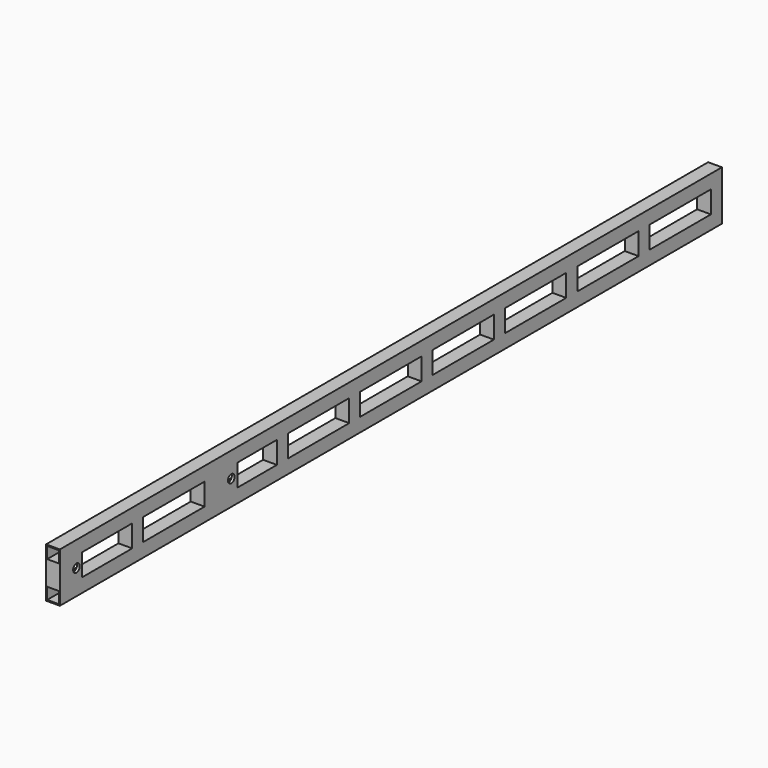
from build123d import *

# Parameters (mm, degrees)
F0_W     = 50
F0_H     = 50
F0_W_2   = 42
F0_H_2   = 42
F1_DEPTH = 1500
F2_W     = 50
F2_H     = 50
F2_W_2   = 42
F2_H_2   = 42
F3_DEPTH = 80
F5_W     = 10
F5_H     = 50
F5_H_2   = 100
F6_DEPTH = 80
F7_R     = 15
F8_DEPTH = 50.001


with BuildPart() as f1:
    # F0 (on Front) → F1 (new body, symmetric)
    with BuildSketch(Plane.XZ):
        Rectangle(F0_W, F0_H)
        Rectangle(F0_W_2, F0_H_2, mode=Mode.SUBTRACT)
    extrude(amount=F1_DEPTH, both=True)


with BuildPart() as f1b:
    # F0 (on Front) → F1, piece 2 (new body, symmetric)
    with BuildSketch(Plane.XZ):
        with Locations((0, 130)):
            Rectangle(F0_W, F0_H)
        with Locations((0, 130)):
            Rectangle(F0_W_2, F0_H_2, mode=Mode.SUBTRACT)
    extrude(amount=F1_DEPTH, both=True)


with BuildPart() as f3:
    # F2 (on face) → F3 (new body, through all)
    with BuildSketch(Plane.XY.offset(25)):
        with Locations((0, 1475)):
            Rectangle(F2_W, F2_H)
        with Locations((0, 1475)):
            Rectangle(F2_W_2, F2_H_2, mode=Mode.SUBTRACT)
    extrude(amount=F3_DEPTH)


with BuildPart() as f3b:
    # F2 (on face) → F3, piece 2 (new body, through all)
    with BuildSketch(Plane.XY.offset(25)):
        with Locations((0, 1147.2222222222)):
            Rectangle(F2_W, F2_H)
        with Locations((0, 1147.2222222222)):
            Rectangle(F2_W_2, F2_H_2, mode=Mode.SUBTRACT)
    extrude(amount=F3_DEPTH)


with BuildPart() as f3c:
    # F2 (on face) → F3, piece 3 (new body, through all)
    with BuildSketch(Plane.XY.offset(25)):
        with Locations((0, 819.4444444444)):
            Rectangle(F2_W, F2_H)
        with Locations((0, 819.4444444444)):
            Rectangle(F2_W_2, F2_H_2, mode=Mode.SUBTRACT)
    extrude(amount=F3_DEPTH)


with BuildPart() as f3d:
    # F2 (on face) → F3, piece 4 (new body, through all)
    with BuildSketch(Plane.XY.offset(25)):
        with Locations((0, 491.6666666667)):
            Rectangle(F2_W, F2_H)
        with Locations((0, 491.6666666667)):
            Rectangle(F2_W_2, F2_H_2, mode=Mode.SUBTRACT)
    extrude(amount=F3_DEPTH)


with BuildPart() as f3e:
    # F2 (on face) → F3, piece 5 (new body, through all)
    with BuildSketch(Plane.XY.offset(25)):
        with Locations((0, 163.8888888889)):
            Rectangle(F2_W, F2_H)
        with Locations((0, 163.8888888889)):
            Rectangle(F2_W_2, F2_H_2, mode=Mode.SUBTRACT)
    extrude(amount=F3_DEPTH)


with BuildPart() as f3f:
    # F2 (on face) → F3, piece 6 (new body, through all)
    with BuildSketch(Plane.XY.offset(25)):
        with Locations((0, -163.8888888889)):
            Rectangle(F2_W, F2_H)
        with Locations((0, -163.8888888889)):
            Rectangle(F2_W_2, F2_H_2, mode=Mode.SUBTRACT)
    extrude(amount=F3_DEPTH)


with BuildPart() as f3g:
    # F2 (on face) → F3, piece 7 (new body, through all)
    with BuildSketch(Plane.XY.offset(25)):
        with Locations((0, -491.6666666667)):
            Rectangle(F2_W, F2_H)
        with Locations((0, -491.6666666667)):
            Rectangle(F2_W_2, F2_H_2, mode=Mode.SUBTRACT)
    extrude(amount=F3_DEPTH)


with BuildPart() as f3h:
    # F2 (on face) → F3, piece 8 (new body, through all)
    with BuildSketch(Plane.XY.offset(25)):
        with Locations((0, -819.4444444444)):
            Rectangle(F2_W, F2_H)
        with Locations((0, -819.4444444444)):
            Rectangle(F2_W_2, F2_H_2, mode=Mode.SUBTRACT)
    extrude(amount=F3_DEPTH)


with BuildPart() as f3i:
    # F2 (on face) → F3, piece 9 (new body, through all)
    with BuildSketch(Plane.XY.offset(25)):
        with Locations((0, -1147.2222222222)):
            Rectangle(F2_W, F2_H)
        with Locations((0, -1147.2222222222)):
            Rectangle(F2_W_2, F2_H_2, mode=Mode.SUBTRACT)
    extrude(amount=F3_DEPTH)


with BuildPart() as f3j:
    # F2 (on face) → F3, piece 10 (new body, through all)
    with BuildSketch(Plane.XY.offset(25)):
        with Locations((0, -1475)):
            Rectangle(F2_W, F2_H)
        with Locations((0, -1475)):
            Rectangle(F2_W_2, F2_H_2, mode=Mode.SUBTRACT)
    extrude(amount=F3_DEPTH)


with BuildPart() as f1_1:
    add(f1.part)

    # F4: union F1b, F3, F3b, F3c, F3d, F3e, F3f, F3g, F3h, F3i, F3j
    add(f1b.part)
    add(f3.part)
    add(f3b.part)
    add(f3c.part)
    add(f3d.part)
    add(f3e.part)
    add(f3f.part)
    add(f3g.part)
    add(f3h.part)
    add(f3i.part)
    add(f3j.part)

    # F5 (on face) → F6 (join, through all)
    with BuildSketch(Plane.XY.offset(25)):
        with Locations((20, -1425)):
            Rectangle(F5_W, F5_H)
        with Locations((20, -744.4444444444)):
            Rectangle(F5_W, F5_H_2)
        with Locations((-20, -1425)):
            Rectangle(F5_W, F5_H)
        with Locations((-20, -744.4444444444)):
            Rectangle(F5_W, F5_H_2)
    extrude(amount=F6_DEPTH)

    # F7 (on face) → F8 (cut, through all)
    with BuildSketch(Plane.YZ.offset(25)):
        with Locations((-723.4444444444, 65)):
            Circle(F7_R)
        with Locations((-1425, 65)):
            Circle(F7_R)
    extrude(amount=-F8_DEPTH, mode=Mode.SUBTRACT)


solid = f1_1.part
